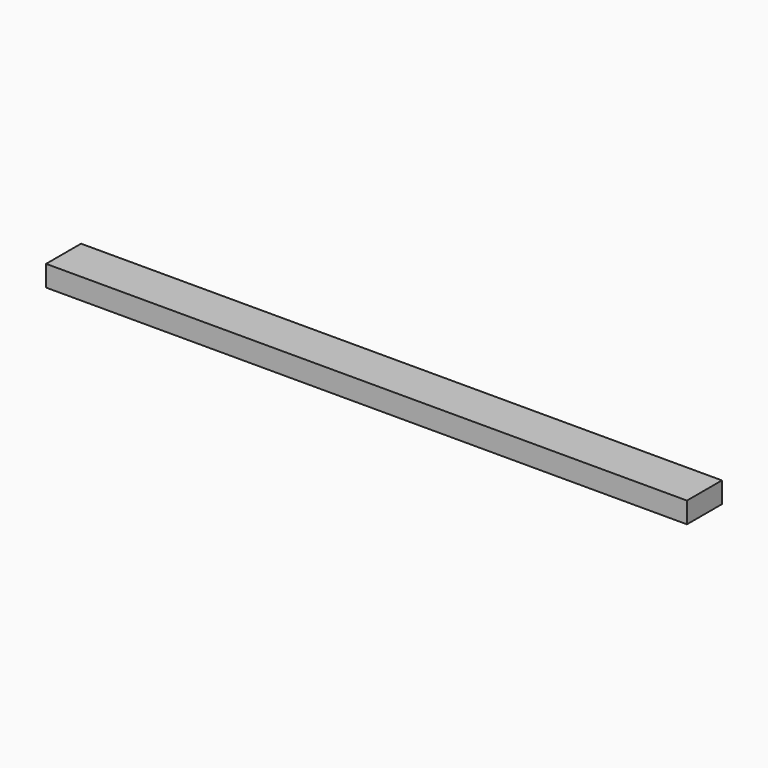
from build123d import *

# Parameters (mm, degrees)
BOX_W     = 704
BOX_H     = 48
BOX_DEPTH = 23


with BuildPart() as part:
    # Box → Box (new body)
    with BuildSketch(Plane.XY):
        with Locations((352, 24)):
            Rectangle(BOX_W, BOX_H)
    extrude(amount=BOX_DEPTH)


solid = part.part
